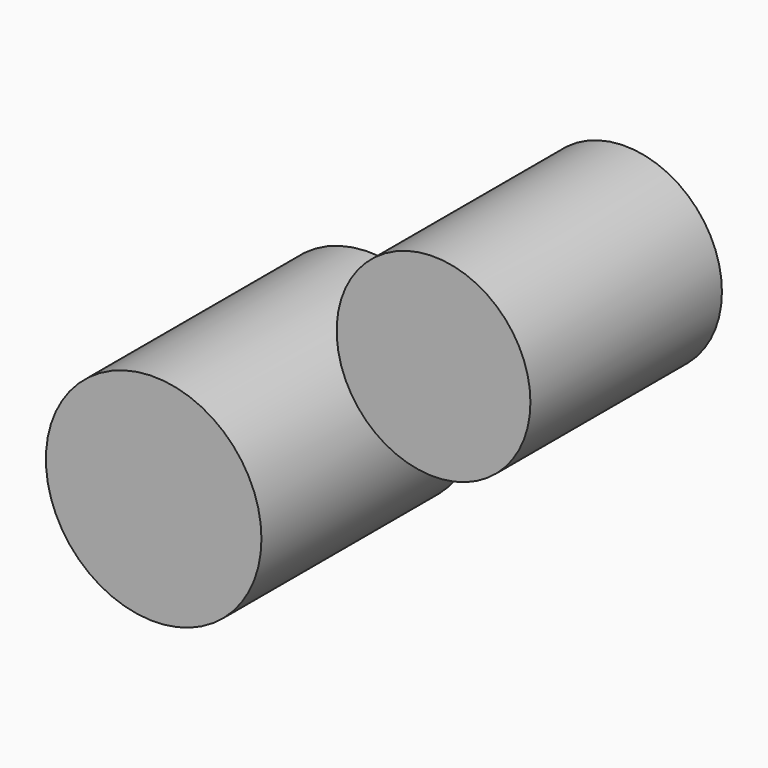
from build123d import *

# Parameters (mm, degrees)
F0_R     = 36.725675
F1_DEPTH = 91.84625
F0_R_2   = 33.011771
F2_DEPTH = 81.555299


with BuildPart() as f1:
    # F0 (on Front) → F1 (new body)
    with BuildSketch(Plane.XZ):
        Circle(F0_R)
    extrude(amount=F1_DEPTH)


with BuildPart() as f2:
    # F0 (on Front) → F2 (new body)
    with BuildSketch(Plane.XZ):
        with Locations((87.131977, 63.896812)):
            Circle(F0_R_2)
    extrude(amount=F2_DEPTH)


solid = Compound([f1.part, f2.part])
